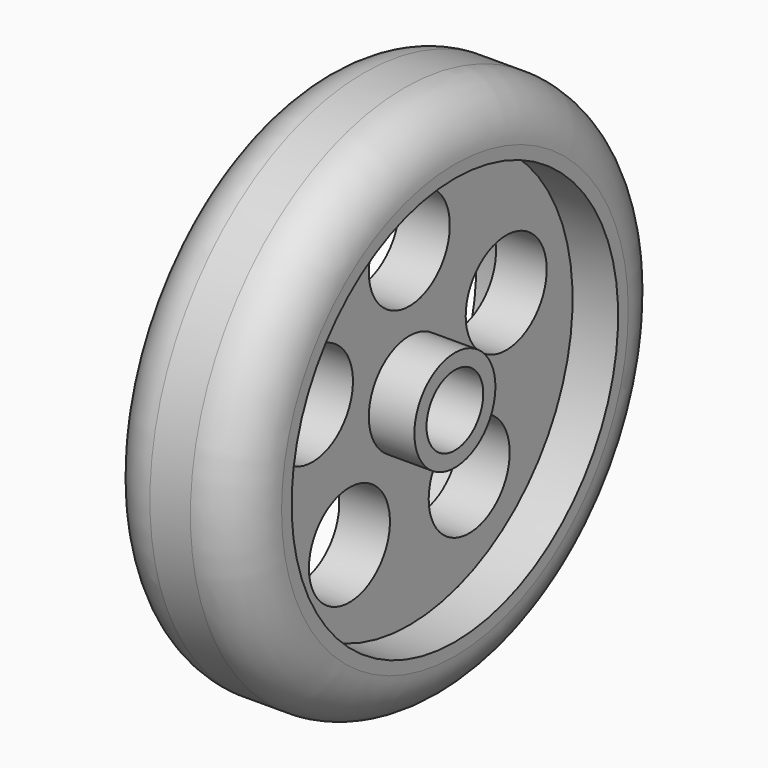
from build123d import *

# Parameters (mm, degrees)
F3_D = 10
F4_R = 5
F6_D = 7


with BuildPart() as f1:
    # F0 (on Front) → F1 (revolve)
    with BuildSketch(Plane.XZ):
        Polygon((0, 5), (0, 0), (14, 0), (14, 5), (9.5, 5), (9.5, 20.154822), (14, 20.154822), (14, 26.396757), (0, 26.396757), (0, 20.154822), (4.5, 20.154822), (4.5, 5), align=None)
    revolve(axis=Axis((7, 0, 0), (1, 0, 0)))

    # F3 (through all)
    with Locations(Plane.YZ.offset(9.5)):
        with Locations((0, 12.574399), (-11.958964, 3.885703), (-7.391046, -10.172902), (7.391046, -10.172902), (11.958964, 3.885703)):
            Hole(F3_D / 2)

    # F4
    f4_edges = [f1.edges().sort_by_distance(p)[0] for p in [
        (14, 0, -26.396757),
        (0, 0, -26.396757),
    ]]
    fillet(f4_edges, radius=F4_R)

    # F6 (through all)
    with Locations(Plane.YZ.offset(14)):
        with Locations((0, 0)):
            Hole(F6_D / 2)


solid = f1.part
